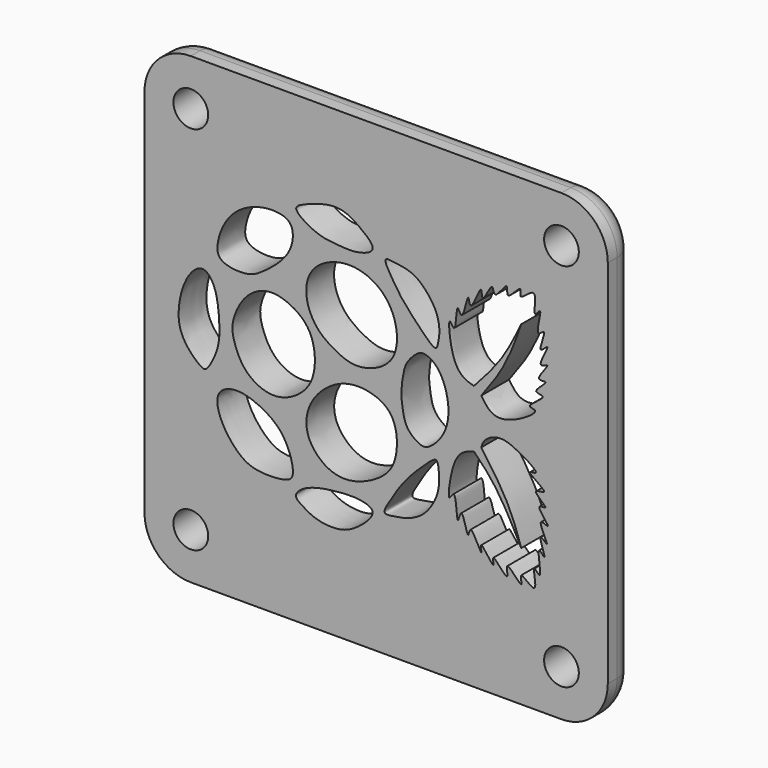
from build123d import *

# Parameters (mm, degrees)
F0_R     = 1.5
F1_DEPTH = 3
F2_R     = 2


with BuildPart() as f1:
    # F0 (on Front) → F1 (new body)
    with BuildSketch(Plane.XZ):
        with BuildLine():
            Line((6, 20), (-26, 20))
            ThreePointArc((-26, 20), (-28.8284271247, 18.8284271247), (-30, 16))
            Line((-30, 16), (-30, -16))
            ThreePointArc((-30, -16), (-28.8284271247, -18.8284271247), (-26, -20))
            Line((-26, -20), (6, -20))
            ThreePointArc((6, -20), (8.8284271247, -18.8284271247), (10, -16))
            Line((10, -16), (10, 16))
            ThreePointArc((10, 16), (8.8284271247, 18.8284271247), (6, 20))
        make_face()
        with Locations((-26, -16)):
            Circle(F0_R, mode=Mode.SUBTRACT)
        with BuildLine():
            add(Edge.make_bspline(
                [(-14.2530117467, -9.1079304552), (-13.5753796663, -8.9972473271), (-12.3475940808, -8.8748813983), (-10.862022959, -9.0079345959), (-9.923179489, -9.6066377117), (-11.5851251244, -11.2449207845), (-13.2208104243, -11.9804382901), (-15.2550274064, -11.7345911353), (-16.3127438219, -11.0884870142), (-17.2260813783, -10.4875317428), (-16.1718070656, -9.4961420315), (-14.9451183856, -9.2209778299), (-14.2530117467, -9.1079304552)],
                knots=[0, 0, 0, 0, 0.1159425015, 0.2169893991, 0.285927478, 0.399836521, 0.5147627874, 0.6293433589, 0.723622636, 0.7967311928, 0.881580909, 1, 1, 1, 1], degree=3))
        make_face(mode=Mode.SUBTRACT)
        with BuildLine():
            add(Edge.make_bspline(
                [(-23.6191612178, -4.9675399171), (-23.4250215369, -4.5039303373), (-22.2830154017, -3.8847210416), (-20.0032710817, -4.5465071957), (-17.7634301465, -6.0441637374), (-16.9221202837, -8.9980772219), (-17.7539000585, -9.6854483136), (-20.2487095016, -9.7600364741), (-21.7414353876, -9.1158235715), (-23.3963972848, -7.2038005494), (-23.8490129643, -5.5164306496), (-23.6191612178, -4.9675399171)],
                knots=[0, 0, 0, 0, 0.0960426398, 0.2138408577, 0.3436471066, 0.4716157721, 0.5423442591, 0.6623324204, 0.762806108, 0.8862902813, 1, 1, 1, 1], degree=3))
        make_face(mode=Mode.SUBTRACT)
        with BuildLine():
            add(Edge.make_bspline(
                [(-15.9066221646, -5.412122856), (-16.1518748672, -4.5788650003), (-15.8266012115, -2.5669698436), (-13.0539441765, -0.2577568949), (-10.1874265331, -0.409968586), (-8.1867325941, -1.6832100061), (-8.0702426309, -5.0756592535), (-9.5528719235, -6.8649046993), (-12.2695165709, -8.0630704836), (-14.5081425087, -7.555206683), (-15.6719114895, -6.2095636662), (-15.9066221646, -5.412122856)],
                knots=[0, 0, 0, 0, 0.1125357291, 0.2390795317, 0.3521829171, 0.4523470982, 0.5719053281, 0.6754966563, 0.7909533572, 0.8923015459, 1, 1, 1, 1], degree=3))
        make_face(mode=Mode.SUBTRACT)
        with Locations((6, -16)):
            Circle(F0_R, mode=Mode.SUBTRACT)
        with BuildLine():
            add(Edge.make_bspline(
                [(-6.5332498992, -5.2057269518), (-6.022877487, -4.6847576916), (-5.218338867, -3.9316761809), (-4.6906158782, -3.7031033296), (-4.5392711962, -4.7973198376), (-4.5606969541, -6.079015295), (-5.0310536859, -7.1758760386), (-5.5514579576, -7.9184225585), (-6.0770915464, -8.4423578157), (-6.7418892067, -8.8334026626), (-7.530334518, -9.139644803), (-8.2712060609, -9.2231705225), (-9.2894573752, -9.4482389404), (-9.2741483272, -8.9329295762), (-8.7397201167, -8.1373067958), (-7.9639677233, -6.766664628), (-7.0753251653, -5.7590573113), (-6.5332498992, -5.2057269518)],
                knots=[0, 0, 0, 0, 0.093329493, 0.1325357357, 0.1959700793, 0.2752372999, 0.3482505118, 0.4120261671, 0.4694324883, 0.5284624407, 0.5894227214, 0.6509874729, 0.7136163306, 0.7507595247, 0.8159879952, 0.9008731495, 1, 1, 1, 1], degree=3))
        make_face(mode=Mode.SUBTRACT)
        with BuildLine():
            add(Edge.make_bspline(
                [(-1.5597183397, -2.09717917), (-1.9472613713, -2.2186430368), (-2.8318253149, -2.4958833644), (-3.5501902278, -4.0716891626), (-3.8918711849, -6.9495501616), (-3.0742741362, -5.1659239811), (-3.0399102123, -8.8404098167), (-2.6197555872, -6.198407111), (-2.0429886143, -9.4103745556), (-1.9178355072, -7.3180839174), (-0.6547965916, -10.4319586305), (-1.2305747622, -8.2044403653), (0.4553894509, -10.9821059369), (-0.2372114207, -8.8640593938), (1.7171929244, -11.5886216302), (0.9049586797, -8.957558293), (2.94146611, -11.704700801), (2.1210456252, -9.4764408898), (4.2455712679, -11.8169366768), (3.2906777067, -8.6000010905), (4.5232120556, -10.4504088554), (3.6463015811, -6.9320290342), (4.9538117892, -8.9213636498), (3.7145635412, -6.0017618726), (5.2944184217, -7.8211294601), (3.6032392966, -5.0044773932), (5.4837659643, -6.2132697195), (3.4431912349, -4.1373511046), (5.2500817173, -4.611654658), (3.0472875351, -3.1591597942), (5.3627990597, -3.421946884), (2.579013776, -1.9326518274), (4.4667046911, -2.1709603737), (1.9591259815, -0.5582999228), (0.512077988, -0.208038616), (-0.7112083222, -0.8682604118), (-0.8586922213, -1.3695083087), (-0.9229314723, -1.5878357982)],
                knots=[0, 0, 0, 0, 0.0296598553, 0.067698388, 0.1052588876, 0.124532315, 0.1618050039, 0.1845501341, 0.2184322455, 0.2379240374, 0.2732225293, 0.2933842915, 0.3273673668, 0.3475291095, 0.3814688967, 0.4058363864, 0.4397379534, 0.4622794888, 0.4930145941, 0.5259386099, 0.5462731547, 0.5831718118, 0.6040917745, 0.636902677, 0.6584684859, 0.6925606838, 0.7137370919, 0.7463430406, 0.7661498849, 0.7964339243, 0.8194604963, 0.8538059654, 0.873089411, 0.9116451231, 0.9477800413, 0.9772546627, 1, 1, 1, 1], degree=3))
            add(Edge.make_bspline(
                [(-1.5597183397, -2.09717917), (-1.0965700896, -2.5659395607), (-0.1271259722, -3.5471307949), (1.2144168016, -5.5580582525), (2.0729343085, -7.2402426111), (2.5229705744, -8.1220463731)],
                knots=[0, 0, 0, 0, 0.3032571879, 0.6347662908, 1, 1, 1, 1], degree=3))
            add(Edge.make_bspline(
                [(-0.9229314723, -1.5878357982), (-0.489194773, -2.1855715581), (0.4101569661, -3.4249748552), (1.7286606986, -5.6898059051), (2.2589229161, -7.3135112917), (2.5229705744, -8.1220463731)],
                knots=[0, 0, 0, 0, 0.3186483138, 0.6607163186, 1, 1, 1, 1], degree=3))
        make_face(mode=Mode.SUBTRACT)
        with BuildLine():
            add(Edge.make_bspline(
                [(-23.5418418916, 0.4061093362), (-23.513398509, -0.3323175273), (-23.5384871331, -1.4769950606), (-24.501095791, -3.3076221636), (-25.0134386382, -3.5385184344), (-26.8822596879, -1.8216885841), (-27.2121330534, 0.4027211125), (-26.5341570367, 3.1068245146), (-25.0030688144, 4.5918706611), (-23.7316245819, 3.151011151), (-23.5755107222, 1.2801955627), (-23.5418418916, 0.4061093362)],
                knots=[0, 0, 0, 0, 0.1156560815, 0.2279145999, 0.2786637521, 0.4003517732, 0.5248197553, 0.6615538623, 0.7660670502, 0.8630962755, 1, 1, 1, 1], degree=3))
        make_face(mode=Mode.SUBTRACT)
        with BuildLine():
            add(Edge.make_bspline(
                [(-19.5599305844, 5.8184184518), (-20.1059627345, 5.4122854768), (-20.9999562591, 4.8158791425), (-23.6423145974, 5.0951168971), (-23.8124459535, 6.6044979657), (-22.8707781511, 9.0589108632), (-20.6240109687, 10.4984011888), (-18.40044005, 10.6879945794), (-17.0408163607, 10.0632721662), (-17.2371173254, 7.6422039245), (-18.8667738535, 6.3339811439), (-19.5599305844, 5.8184184518)],
                knots=[0, 0, 0, 0, 0.104857278, 0.2208732301, 0.3056718306, 0.4297034388, 0.5561457312, 0.6706919189, 0.7560299129, 0.8668896547, 1, 1, 1, 1], degree=3))
        make_face(mode=Mode.SUBTRACT)
        with BuildLine():
            add(Edge.make_bspline(
                [(-22.343402958, 1.0633182644), (-22.1999038118, 1.735986865), (-21.4201205606, 3.4713747157), (-19.1460036574, 4.6460201322), (-16.7412297394, 3.6999251015), (-15.2508308309, 2.0504717373), (-15.1502400394, -1.375877623), (-17.1570388719, -3.1929587508), (-19.2125215588, -3.7012722875), (-21.4553012568, -2.572596554), (-22.3737560343, -0.3341723374), (-22.451490385, 0.5566461333), (-22.343402958, 1.0633182644)],
                knots=[0, 0, 0, 0, 0.1040494552, 0.205874497, 0.3077476551, 0.4046909368, 0.5218371335, 0.6268972537, 0.7202219741, 0.8213078187, 0.9216271443, 1, 1, 1, 1], degree=3))
        make_face(mode=Mode.SUBTRACT)
        with BuildLine():
            add(Edge.make_bspline(
                [(-15.0754457815, 2.8803079569), (-15.608557339, 3.5049108368), (-16.3009979057, 5.1213093527), (-15.6228463002, 7.7249957899), (-12.0428869157, 9.1333924135), (-8.2980328798, 7.1540947603), (-7.79081631, 2.2889218843), (-11.3849794119, 0.8346427841), (-13.2519361843, 1.4659357365), (-14.5625388048, 2.2793771193), (-15.0754457815, 2.8803079569)],
                knots=[0, 0, 0, 0, 0.1155736299, 0.2289483709, 0.3643252609, 0.5075703913, 0.6550234028, 0.7865764308, 0.8888065354, 1, 1, 1, 1], degree=3))
        make_face(mode=Mode.SUBTRACT)
        with Locations((-26, 16)):
            Circle(F0_R, mode=Mode.SUBTRACT)
        with BuildLine():
            add(Edge.make_bspline(
                [(-13.5290720045, 9.8003318834), (-14.0235764217, 9.8452235278), (-14.9651077509, 9.8733694373), (-17.4555618366, 11.3237765823), (-16.0387454561, 12.0296010251), (-13.2792644089, 12.9980986528), (-11.3886232573, 11.7645846837), (-9.6921003482, 10.3323793162), (-11.8326210181, 9.5878163239), (-12.9975919982, 9.7520835552), (-13.5290720045, 9.8003318834)],
                knots=[0, 0, 0, 0, 0.1166170228, 0.2544591504, 0.3442650127, 0.5020118803, 0.6435628282, 0.7583598485, 0.87466317, 1, 1, 1, 1], degree=3))
        make_face(mode=Mode.SUBTRACT)
        with BuildLine():
            add(Edge.make_bspline(
                [(-7.8240093064, 0.3950045022), (-7.8148716122, 0.8714004857), (-7.6541803113, 1.9535450876), (-7.3724203364, 2.8662035098), (-6.4422749756, 3.8556648756), (-5.7576033717, 3.9966335492), (-4.7271094648, 3.4350040615), (-3.9442793442, 1.9939879515), (-3.6121712691, -0.0210323265), (-4.1450306178, -1.8981141093), (-5.5443877683, -3.2478768635), (-6.3669073511, -3.0847285018), (-7.522292555, -2.1888368857), (-7.725335208, -0.688043469), (-7.8317648799, -0.00933427), (-7.8240093064, 0.3950045022)],
                knots=[0, 0, 0, 0, 0.0834435361, 0.1509557367, 0.2265603448, 0.2799766659, 0.3488176321, 0.4343121835, 0.5296173394, 0.6239736073, 0.7128554346, 0.7698316445, 0.8481813558, 0.9291777049, 1, 1, 1, 1], degree=3))
        make_face(mode=Mode.SUBTRACT)
        with BuildLine():
            add(Edge.make_bspline(
                [(-6.8812628182, 6.4740956433), (-7.3930716945, 7.0297229464), (-8.0164894932, 7.7353674818), (-8.8830554497, 9.1829236167), (-9.1739140045, 9.6652871443), (-9.2197254512, 10.1306555189), (-8.7264578855, 10.0715508783), (-7.0261006875, 9.9046206679), (-5.9408369377, 9.0966496975), (-4.8056582344, 7.7307183282), (-4.4284660774, 6.1380646695), (-4.6781026558, 4.9473269411), (-4.7795564852, 4.6956713609), (-5.145855356, 4.6172860684), (-6.2756627185, 5.8166471976), (-6.8812628182, 6.4740956433)],
                knots=[0, 0, 0, 0, 0.1020477025, 0.1969961687, 0.2546310849, 0.2977232005, 0.3430117011, 0.4410764159, 0.5301427773, 0.6291624133, 0.7268779137, 0.8079041223, 0.8431981659, 0.8792516081, 1, 1, 1, 1], degree=3))
        make_face(mode=Mode.SUBTRACT)
        with BuildLine():
            add(Edge.make_bspline(
                [(-1.5597183397, 2.8767350664), (-1.1694039529, 3.2992247871), (-0.326540974, 4.2115686732), (1.173480566, 6.1102493261), (2.0533721671, 7.9231650344), (2.5229705744, 8.8907186832)],
                knots=[0, 0, 0, 0, 0.2868219811, 0.6193766808, 1, 1, 1, 1], degree=3))
            add(Edge.make_bspline(
                [(-1.5597183397, 2.8767350664), (-1.8589931167, 2.962876281), (-2.5720831754, 3.1681272693), (-3.5405897267, 4.4253007306), (-3.8669793235, 7.9040693791), (-3.0672080274, 5.9833591694), (-3.0920986577, 9.1771883364), (-2.5405421679, 7.0725330254), (-2.0248253846, 10.3339664598), (-1.9139091803, 7.9777981626), (-0.8103468301, 11.3308623626), (-0.9475986641, 8.977191502), (0.1103408908, 11.6491635391), (0.1267478451, 9.713415447), (1.5207348904, 12.1585298775), (1.0949518969, 9.9739767825), (2.7396009203, 12.2096765336), (2.1700545147, 10.3636230555), (4.15331167, 12.645940549), (3.3862678933, 9.3386515386), (4.5351578604, 11.1865869124), (3.5528499763, 7.9880445346), (4.9297924286, 9.5806520616), (3.7033356656, 6.7646122467), (5.3734343924, 8.658277092), (3.6113681571, 5.8066420747), (5.4076383575, 6.9852303701), (3.4053881026, 4.9061766186), (5.2659769897, 5.4402523389), (3.1531798899, 4.0045278971), (5.1358200723, 4.1929676467), (2.6338754967, 2.7592275849), (4.3415119634, 2.8724024819), (2.0049842398, 1.2799578318), (0.034523457, 0.9509761217), (-0.6210284783, 1.9073277045), (-0.9229314723, 2.3477587224)],
                knots=[0, 0, 0, 0, 0.0273290263, 0.0651176059, 0.1083340193, 0.1286593311, 0.1646839988, 0.1854799616, 0.2214419606, 0.2430240575, 0.2801178287, 0.3023235463, 0.3352877021, 0.3563747541, 0.3893248995, 0.4123490057, 0.4447049011, 0.4655526661, 0.4972723316, 0.5320964381, 0.5528260436, 0.5896361655, 0.6102676528, 0.6440279128, 0.6672331042, 0.7029143226, 0.7240406766, 0.7576430162, 0.778712164, 0.809956957, 0.8317000793, 0.8666058191, 0.8859670288, 0.9253452622, 0.9656190644, 1, 1, 1, 1], degree=3))
            add(Edge.make_bspline(
                [(-0.9229314723, 2.3477587224), (-0.3927809563, 3.062087021), (0.6459890714, 4.4617326011), (1.7382888255, 6.6455933234), (2.2624825795, 8.1454124438), (2.5229705744, 8.8907186832)],
                knots=[0, 0, 0, 0, 0.3439892655, 0.6740080941, 1, 1, 1, 1], degree=3))
        make_face(mode=Mode.SUBTRACT)
        with Locations((6, 16)):
            Circle(F0_R, mode=Mode.SUBTRACT)
    extrude(amount=-F1_DEPTH)

    # F2
    f2_edges = [f1.edges().sort_by_distance(p)[0] for p in [
        (-10, 3, -20),
    ]]
    fillet(f2_edges, radius=F2_R)


solid = f1.part
